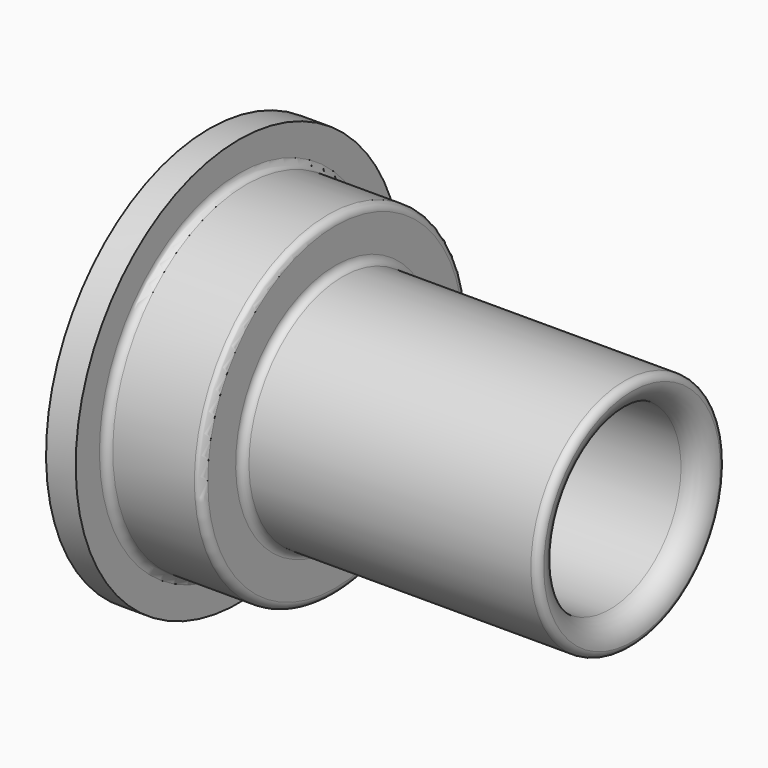
from build123d import *


with BuildPart() as f1:
    # F0 (on Front) → F1 (revolve)
    with BuildSketch(Plane.XZ):
        with BuildLine():
            ThreePointArc((20.3776905551, 15), (20.3770200882, 14.9365779866), (20.3750089872, 14.8731843214))
            ThreePointArc((20.3750089872, 14.8731843214), (20.3770199383, 14.8366167165), (20.3776905551, 14.8))
            Line((20.3776905551, 14.8), (20.3776905551, 15))
        make_face()
    revolve(axis=Axis((-2.0623714099, 0, 0), (1, 0, 0)))


with BuildPart() as f1b:
    # F0 (on Front) → F1, piece 2 (revolve)
    with BuildSketch(Plane.XZ):
        with BuildLine():
            Line((-39.6223094449, 21.5), (-39.6223094449, 15))
            ThreePointArc((-39.6223094449, 15), (-38.7436297885, 12.8786796564), (-36.6223094449, 12))
            Line((-36.6223094449, 12), (17.3776905551, 12))
            ThreePointArc((17.3776905551, 12), (19.4536906712, 12.8343076124), (20.3750089872, 14.8731843214))
            ThreePointArc((20.3750089872, 14.8731843214), (20.05843121, 15.532524512), (19.3776905551, 15.8))
            Line((19.3776905551, 15.8), (-18.6223094449, 15.8))
            ThreePointArc((-18.6223094449, 15.8), (-19.3294162261, 16.0928932188), (-19.6223094449, 16.8))
            Line((-19.6223094449, 16.8), (-19.6223094449, 21.5))
            ThreePointArc((-19.6223094449, 21.5), (-19.9152026637, 22.2071067812), (-20.6223094449, 22.5))
            Line((-20.6223094449, 22.5), (-31.6223094449, 22.5))
            ThreePointArc((-31.6223094449, 22.5), (-32.3294162261, 22.7928932188), (-32.6223094449, 23.5))
            Line((-32.6223094449, 23.5), (-32.6223094449, 27.5))
            Line((-32.6223094449, 27.5), (-36.6223094449, 27.5))
            Line((-36.6223094449, 27.5), (-36.6223094449, 23.5))
            ThreePointArc((-36.6223094449, 23.5), (-36.9152026637, 22.7928932188), (-37.6223094449, 22.5))
            Line((-37.6223094449, 22.5), (-38.6223094449, 22.5))
            ThreePointArc((-38.6223094449, 22.5), (-39.3294162261, 22.2071067812), (-39.6223094449, 21.5))
        make_face()
    revolve(axis=Axis((-2.0623714099, 0, 0), (1, 0, 0)))


solid = f1b.part
